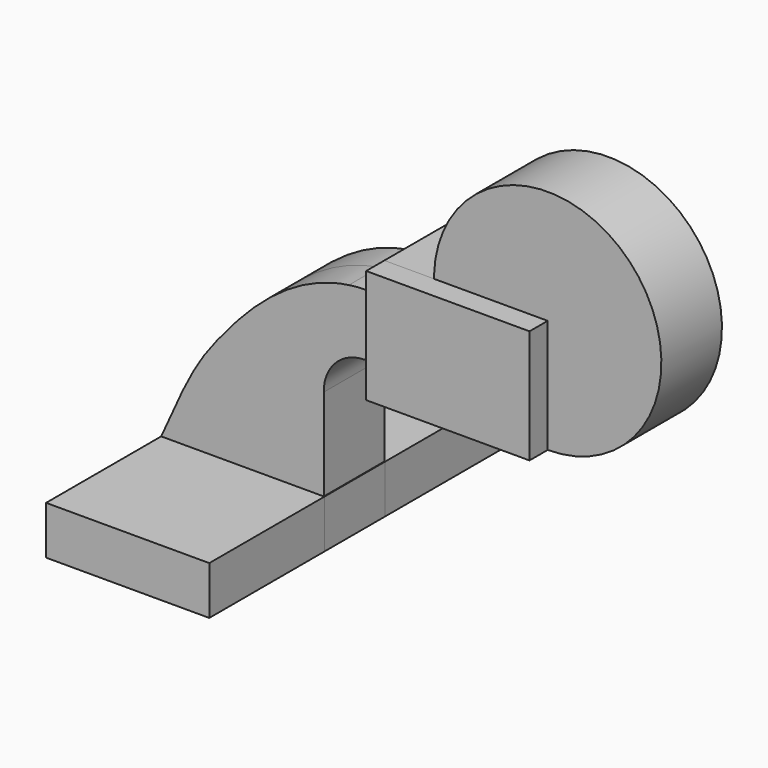
from build123d import *

# Parameters (mm, degrees)
F1_DEPTH  = 76.2
F2_DEPTH  = 25.4
F3_DEPTH  = 15.875
F3_FACE_W = 31.75
F3_FACE_H = 47.6612813593


with BuildPart() as f1:
    # F0 (on Front) → F1 (new body, symmetric)
    with BuildSketch(Plane.XZ):
        Polygon((-34.2090905497, 10.1201273501), (-34.2090905497, -10.1201273501), (34.2090905497, -10.1201273501), (34.2090905497, 10.1201273501), (33.9421695098, 10.1201273501), (8.0341696739, 10.1201273501), align=None)
    extrude(amount=F1_DEPTH, both=True)


with BuildPart() as f2:
    # F0 (on Front) → F2 (new body, symmetric)
    with BuildSketch(Plane.XZ):
        Polygon((59.3270622194, 105.4492775262), (59.3270622194, 92.0723080635), (59.3270622194, 66.1643082276), (59.3270622194, 57.7879961669), (127.8074011207, 57.7879961669), (127.8074011207, 105.4492775262), align=None)
    extrude(amount=F2_DEPTH, both=True)


with BuildPart() as f3:
    # F0 (on Front) → F3 (new body, symmetric)
    with BuildSketch(Plane.XZ):
        Polygon((-34.2090905497, 10.1201273501), (-34.2090905497, -10.1201273501), (34.2090905497, -10.1201273501), (34.2090905497, 10.1201273501), (33.9421695098, 10.1201273501), (8.0341696739, 10.1201273501), align=None)
        with BuildLine():
            add(Edge.make_bspline(
                [(-34.2090905497, 10.1201273501), (-22.3805145575, 37.0394678872), (-15.0816373574, 50.14667541), (19.7210816662, 88.0589285063), (44.474039968, 91.545170031)],
                knots=[0, 0, 0, 0, 0.4624058701, 0.9574946773, 0.9574946773, 0.9574946773, 0.9574946773], degree=3))
            Line((-34.2090905497, 10.1201273501), (8.0341696739, 10.1201273501))
            Line((8.0341696739, 10.1201273501), (8.0341696739, 48.4448044045))
            ThreePointArc((8.0341696739, 48.4448044045), (18.2354528521, 76.7744804641), (44.474039968, 91.545170031))
        make_face()
        with BuildLine():
            Line((8.0341696739, 48.4448044045), (8.0341696739, 10.1201273501))
            Line((8.0341696739, 10.1201273501), (33.9421695098, 10.1201273501))
            Line((33.9421695098, 10.1201273501), (33.9421695098, 48.6127595879))
            ThreePointArc((33.9421695098, 48.6127595879), (38.9397076098, 61.0519617659), (51.3321670727, 66.1643082276))
            Line((51.3321670727, 66.1643082276), (59.3270622194, 66.1643082276))
            Line((59.3270622194, 66.1643082276), (59.3270622194, 92.0723080635))
            Line((59.3270622194, 92.0723080635), (50.9985089302, 92.0723080635))
            add(Edge.make_bspline(
                [(44.474039968, 91.545170031), (46.5991788631, 91.8444775873), (48.7741275188, 92.0249888934), (50.9985089302, 92.0723080635)],
                knots=[0.9574946773, 0.9574946773, 0.9574946773, 0.9574946773, 1, 1, 1, 1], degree=3))
            ThreePointArc((44.474039968, 91.545170031), (18.2354528521, 76.7744804641), (8.0341696739, 48.4448044045))
        make_face()
        with BuildLine():
            ThreePointArc((50.9985089302, 92.0723080635), (47.726269289, 91.9325744619), (44.474039968, 91.545170031))
            add(Edge.make_bspline(
                [(44.474039968, 91.545170031), (46.5991788631, 91.8444775873), (48.7741275188, 92.0249888934), (50.9985089302, 92.0723080635)],
                knots=[0.9574946773, 0.9574946773, 0.9574946773, 0.9574946773, 1, 1, 1, 1], degree=3))
        make_face()
        Polygon((59.3270622194, 105.4492775262), (59.3270622194, 92.0723080635), (59.3270622194, 66.1643082276), (59.3270622194, 57.7879961669), (127.8074011207, 57.7879961669), (127.8074011207, 105.4492775262), align=None)
    extrude(amount=F3_DEPTH, both=True)


with BuildPart() as f4:
    # F3_face (on face) → F4 (revolve)
    with BuildSketch(Plane(origin=(127.8074011207, 0, 81.6186368465), x_dir=(0, 1, 0), z_dir=(1, 0, 0))):
        Rectangle(F3_FACE_W, F3_FACE_H)
    revolve(axis=Axis((127.8074011207, 0, 105.4492775262), (0, 1, 0)))


solid = Compound([f1.part, f2.part, f3.part, f4.part])
